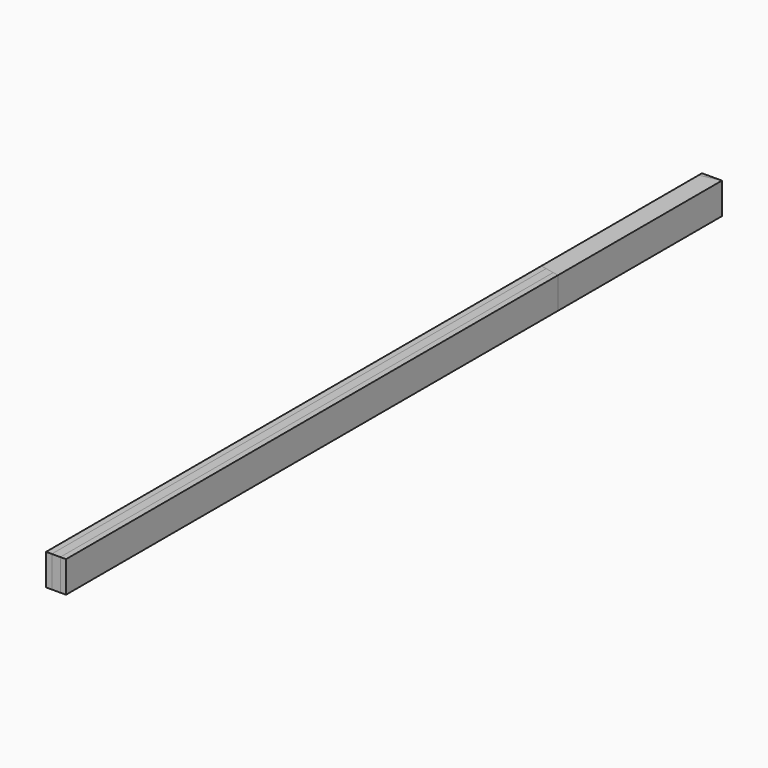
from build123d import *

# Parameters (mm, degrees)
F0_W      = 88.9
F0_H      = 139.7
F2_DEPTH  = 1219.2
F3_DEPTH  = 2438.4
F4_DEPTH  = 3352.8
F5_DEPTH  = 3657.6
F1_W      = 38.1
F1_H      = 139.7
F6_DEPTH  = 2438.4
F7_DEPTH  = 3657.6
F8_DEPTH  = 914.4
F10_DEPTH = 139.701


with BuildPart() as f2:
    # F0 (on Front) → F2 (new body)
    with BuildSketch(Plane.XZ):
        Rectangle(F0_W, F0_H)
    extrude(amount=F2_DEPTH)


with BuildPart() as f3:
    # F0 (on Front) → F3 (new body)
    with BuildSketch(Plane.XZ):
        Rectangle(F0_W, F0_H)
    extrude(amount=F3_DEPTH)


with BuildPart() as f4:
    # F0 (on Front) → F4 (new body)
    with BuildSketch(Plane.XZ):
        Rectangle(F0_W, F0_H)
    extrude(amount=F4_DEPTH)


with BuildPart() as f5:
    # F0 (on Front) → F5 (new body)
    with BuildSketch(Plane.XZ):
        Rectangle(F0_W, F0_H)
    extrude(amount=F5_DEPTH)


with BuildPart() as f6:
    # F1 (on Front) → F6 (new body)
    with BuildSketch(Plane.XZ):
        Rectangle(F1_W, F1_H)
    extrude(amount=F6_DEPTH)


with BuildPart() as f7:
    # F1 (on Front) → F7 (new body)
    with BuildSketch(Plane.XZ):
        Rectangle(F1_W, F1_H)
    extrude(amount=F7_DEPTH)


with BuildPart() as f8:
    # F0 (on Front) → F8 (new body)
    with BuildSketch(Plane.XZ):
        Rectangle(F0_W, F0_H)
    extrude(amount=F8_DEPTH)

    # F9 (on face) → F10 (cut, through all)
    with BuildSketch(Plane.XY.offset(69.85)):
        Polygon((-44.45, -18.8962783325), (44.45, 0), (-44.45, 0), align=None)
        Polygon((-44.45, -895.5037216675), (-44.45, -914.4), (44.45, -914.4), align=None)
    extrude(amount=-F10_DEPTH, mode=Mode.SUBTRACT)


solid = Compound([f2.part, f3.part, f4.part, f5.part, f6.part, f7.part, f8.part])
